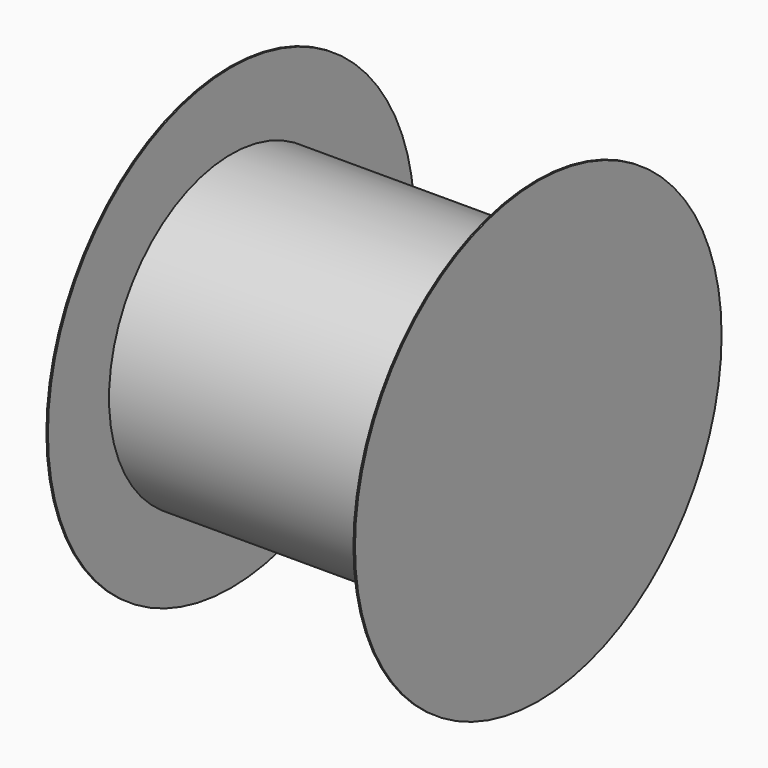
from build123d import *

# Parameters (mm, degrees)
SKETCH005_R   = 100
SKETCH005_R_2 = 10
PAD003_DEPTH  = 200
SKETCH010_R   = 150
SKETCH010_R_2 = 10
PAD007_DEPTH  = 1
SKETCH011_R   = 150
PAD008_DEPTH  = 1


with BuildPart() as part:
    # Sketch005 → Pad003 (new body)
    with BuildSketch(Plane.YZ):
        Circle(SKETCH005_R)
        Circle(SKETCH005_R_2, mode=Mode.SUBTRACT)
    extrude(amount=PAD003_DEPTH)

    # Sketch010 (on Face3 of Pad003) → Pad007 (join)
    with BuildSketch(Plane(origin=(0, 0, 0), x_dir=(0, 1, 0), z_dir=(-1, 0, 0))):
        Circle(SKETCH010_R)
        Circle(SKETCH010_R_2, mode=Mode.SUBTRACT)
    extrude(amount=PAD007_DEPTH)

    # Sketch011 (on Face3 of Pad007) → Pad008 (join)
    with BuildSketch(Plane.YZ.offset(200)):
        Circle(SKETCH011_R)
    extrude(amount=PAD008_DEPTH)


with BuildPart() as part_1:
    # Body002 placement: moved
    add(part.part.moved(Location((0, -225, 160))))


solid = part_1.part
